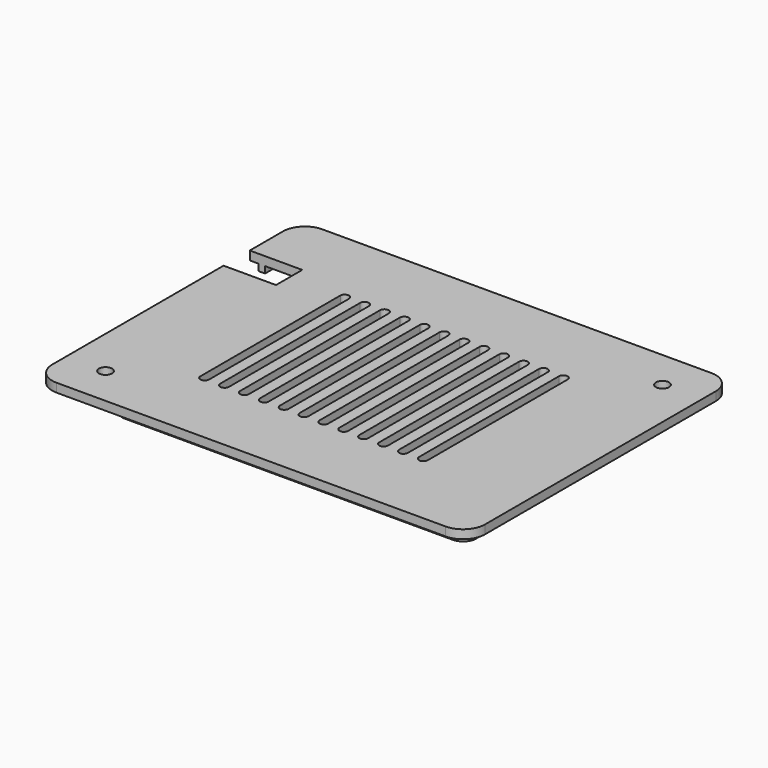
from build123d import *

# Parameters (mm, degrees)
PAD_DEPTH            = 2
PAD001_DEPTH         = 3.5
SKETCH002_R          = 1.5
POCKET_DEPTH         = 5
POCKET001_DEPTH      = 5
LINEARPATTERN_COUNT  = 12
LINEARPATTERN_PITCH  = 4.545455
SKETCH004_W          = 12
SKETCH004_H          = 7.5
POCKET002_DEPTH      = 10
POCKET002_DEPTH_BACK = -100


with BuildPart() as part:
    # Sketch → Pad (new body)
    with BuildSketch(Plane.XY):
        with BuildLine():
            Line((-44.5, 38), (44.5, 38))
            ThreePointArc((49.5, 33), (48.035534, 36.535534), (44.5, 38))
            Line((49.5, 33), (49.5, -33))
            ThreePointArc((44.5, -38), (48.035534, -36.535534), (49.5, -33))
            Line((44.5, -38), (-44.5, -38))
            ThreePointArc((-49.5, -33), (-48.035534, -36.535534), (-44.5, -38))
            Line((-49.5, -33), (-49.5, 33))
            ThreePointArc((-44.5, 38), (-48.035534, 36.535534), (-49.5, 33))
        make_face()
    extrude(amount=PAD_DEPTH)

    # Sketch001 (on Face10 of Pad) → Pad001 (join)
    with BuildSketch(Plane.XY.offset(2)):
        with BuildLine():
            Line((-44.5, 36), (30.5, 36))
            ThreePointArc((33.5, 33), (32.62132, 35.12132), (30.5, 36))
            Line((33.5, 33), (33.5, 25))
            ThreePointArc((33.5, 25), (34.37868, 22.87868), (36.5, 22))
            Line((36.5, 22), (44.5, 22))
            ThreePointArc((47.5, 19), (46.62132, 21.12132), (44.5, 22))
            Line((47.5, 19), (47.5, -33))
            ThreePointArc((44.5, -36), (46.62132, -35.12132), (47.5, -33))
            Line((44.5, -36), (-30.5, -36))
            ThreePointArc((-33.5, -33), (-32.62132, -35.12132), (-30.5, -36))
            Line((-33.5, -33), (-33.5, -25))
            ThreePointArc((-33.5, -25), (-34.37868, -22.87868), (-36.5, -22))
            Line((-36.5, -22), (-44.5, -22))
            ThreePointArc((-47.5, -19), (-46.62132, -21.12132), (-44.5, -22))
            Line((-47.5, -19), (-47.5, 33))
            ThreePointArc((-44.5, 36), (-46.62132, 35.12132), (-47.5, 33))
        make_face()
        with BuildLine():
            Line((-46, -19), (-46, 33))
            ThreePointArc((-44.5, 34.5), (-45.56066, 34.06066), (-46, 33))
            Line((-44.5, 34.5), (30.5, 34.5))
            ThreePointArc((32, 33), (31.56066, 34.06066), (30.5, 34.5))
            Line((32, 33), (32, 25))
            ThreePointArc((32, 25), (33.318019, 21.818019), (36.5, 20.5))
            Line((36.5, 20.5), (44.5, 20.5))
            ThreePointArc((46, 19), (45.56066, 20.06066), (44.5, 20.5))
            Line((46, 19), (46, -33))
            ThreePointArc((44.5, -34.5), (45.56066, -34.06066), (46, -33))
            Line((44.5, -34.5), (-30.5, -34.5))
            ThreePointArc((-32, -33), (-31.56066, -34.06066), (-30.5, -34.5))
            Line((-32, -33), (-32, -25))
            ThreePointArc((-32, -25), (-33.318019, -21.818019), (-36.5, -20.5))
            Line((-36.5, -20.5), (-44.5, -20.5))
            ThreePointArc((-46, -19), (-45.56066, -20.06066), (-44.5, -20.5))
        make_face(mode=Mode.SUBTRACT)
    extrude(amount=-PAD001_DEPTH)

    # Sketch002 (on Face5 of Pad001) → Pocket (cut)
    with BuildSketch(Plane.XY.offset(2)):
        with Locations((40.5, 29)):
            Circle(SKETCH002_R)
        with Locations((-40.5, -29)):
            Circle(SKETCH002_R)
    extrude(amount=-POCKET_DEPTH, mode=Mode.SUBTRACT)

    # Sketch003 (on Face46 of Pocket) → Pocket001 (cut)
    with BuildSketch(Plane.XY.offset(2)):
        with BuildLine():
            ThreePointArc((-24, 20), (-25, 21), (-26, 20))
            Line((-26, 20), (-26, -20))
            ThreePointArc((-26, -20), (-25, -21), (-24, -20))
            Line((-24, 20), (-24, -20))
        make_face()
    pocket001 = extrude(amount=-POCKET001_DEPTH, mode=Mode.SUBTRACT)

    # LinearPattern: Pocket001 ×12
    with Locations(*[(i * LINEARPATTERN_PITCH, 0, 0) for i in range(1, LINEARPATTERN_COUNT)]):
        add(pocket001, mode=Mode.SUBTRACT)

    # Sketch004 (on Face4 of LinearPattern) → Pocket002 (cut, two sides)
    with BuildSketch(Plane(origin=(0, 0, 0), x_dir=(1, 0, 0), z_dir=(0, 0, -1))) as pocket002_sk:
        with Locations((-43.5, -19.75)):
            Rectangle(SKETCH004_W, SKETCH004_H)
    extrude(amount=-POCKET002_DEPTH, mode=Mode.SUBTRACT)
    extrude(pocket002_sk.sketch, amount=-POCKET002_DEPTH_BACK, mode=Mode.SUBTRACT)


solid = part.part
